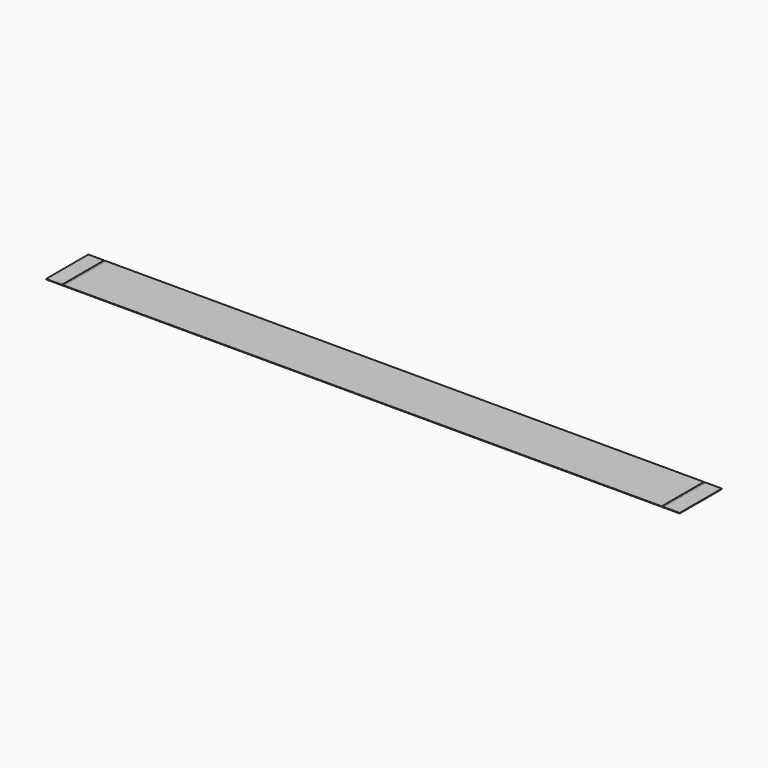
from build123d import *

# Parameters (mm, degrees)
F0_W     = 6000
F0_H     = 500
F1_DEPTH = 5
F2_W     = 20
F2_H     = 500
F3_DEPTH = 2


with BuildPart() as f1:
    # F0 (on Top) → F1 (new body)
    with BuildSketch(Plane.XY):
        Rectangle(F0_W, F0_H)
    extrude(amount=F1_DEPTH)

    # F2 (on face) → F3 (cut)
    with BuildSketch(Plane.XY.offset(5)):
        with Locations((-2840, 0)):
            Rectangle(F2_W, F2_H)
        Polygon((2850, -250), (2850, 0), (2850, 250), (2830, 250), (2830, -250), align=None)
    extrude(amount=-F3_DEPTH, mode=Mode.SUBTRACT)


solid = f1.part
